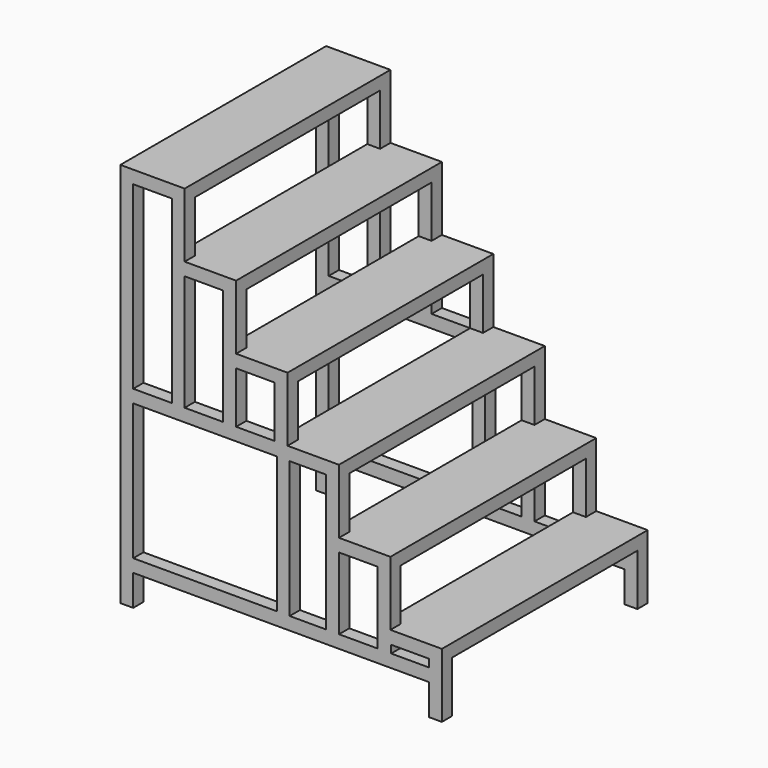
from build123d import *

# Parameters (mm, degrees)
F0_W      = 250
F0_H      = 250
F1_DEPTH  = 1000
F2_T      = -50
F3_W      = 1150
F3_H      = 120
F4_DEPTH  = 1100
F5_W      = 900
F5_H      = 200
F6_DEPTH  = 5000
F7_W      = 900
F7_H      = 200
F8_DEPTH  = 300
F9_W      = 900
F9_H      = 200
F10_DEPTH = 300
F11_W     = 900
F11_H     = 200
F12_DEPTH = 300
F13_W     = 900
F13_H     = 200
F14_DEPTH = 300
F15_W     = 900
F15_H     = 200
F16_DEPTH = 300
F17_W     = 150
F17_H     = 200
F17_W_2   = 558.2895040512
F17_H_2   = 530
F17_W_3   = 147.1817493439
F17_H_3   = 30
F18_DEPTH = 5000


with BuildPart() as f1:
    # F0 (on Front) → F1 (new body)
    with BuildSketch(Plane.XZ):
        Polygon((0, 250), (0, 0), (1250, 0), (1250, 250), (1050, 250), align=None)
        Polygon((0, 500), (0, 250), (1050, 250), (1050, 500), (850, 500), align=None)
        Polygon((0, 750), (0, 500), (850, 500), (850, 750), (650, 750), align=None)
        Polygon((0, 1000), (0, 750), (650, 750), (650, 1000), (450, 1000), align=None)
        Polygon((0, 1250), (0, 1000), (450, 1000), (450, 1250), (250, 1250), align=None)
        with Locations((125, 1375)):
            Rectangle(F0_W, F0_H)
    extrude(amount=F1_DEPTH)

    # F2
    f2_openings = [f1.faces().sort_by_distance(p)[0] for p in [
        (0, -500, 750),
    ]]
    offset(amount=F2_T, openings=f2_openings, kind=Kind.INTERSECTION)

    # F3 (on face) → F4 (cut)
    with BuildSketch(Plane.XZ.offset(1000)):
        with Locations((625, 60)):
            Rectangle(F3_W, F3_H)
    extrude(amount=-F4_DEPTH, mode=Mode.SUBTRACT)

    # F5 (on face) → F6 (cut)
    with BuildSketch(Plane.YZ.offset(1250)):
        with Locations((-500, 100)):
            Rectangle(F5_W, F5_H)
    extrude(amount=-F6_DEPTH, mode=Mode.SUBTRACT)

    # F7 (on face) → F8 (cut)
    with BuildSketch(Plane.YZ.offset(1050)):
        with Locations((-500, 350)):
            Rectangle(F7_W, F7_H)
    extrude(amount=-F8_DEPTH, mode=Mode.SUBTRACT)

    # F9 (on face) → F10 (cut)
    with BuildSketch(Plane.YZ.offset(850)):
        with Locations((-500, 600)):
            Rectangle(F9_W, F9_H)
    extrude(amount=-F10_DEPTH, mode=Mode.SUBTRACT)

    # F11 (on face) → F12 (cut)
    with BuildSketch(Plane.YZ.offset(650)):
        with Locations((-500, 850)):
            Rectangle(F11_W, F11_H)
    extrude(amount=-F12_DEPTH, mode=Mode.SUBTRACT)

    # F13 (on face) → F14 (cut)
    with BuildSketch(Plane.YZ.offset(450)):
        with Locations((-500, 1100)):
            Rectangle(F13_W, F13_H)
    extrude(amount=-F14_DEPTH, mode=Mode.SUBTRACT)

    # F15 (on face) → F16 (cut)
    with BuildSketch(Plane.YZ.offset(250)):
        with Locations((-500, 1350)):
            Rectangle(F15_W, F15_H)
    extrude(amount=-F16_DEPTH, mode=Mode.SUBTRACT)

    # F17 (on face) → F18 (cut)
    with BuildSketch(Plane(origin=(0, 0, 0), x_dir=(-1, 0, 0), z_dir=(0, 1, 0))):
        with Locations((-525, 850)):
            Rectangle(F17_W, F17_H)
        Polygon((-200, 750), (-50, 750), (-50, 1450), (-200, 1450), (-200, 1200), align=None)
        Polygon((-250, 750), (-250, 1200), (-400, 1200), (-400, 950), (-400, 750), align=None)
        with Locations((-329.1447520256, 435)):
            Rectangle(F17_W_2, F17_H_2)
        Polygon((-658.2895040512, 700), (-800, 700), (-800, 450), (-800, 170), (-658.2895040512, 170), align=None)
        Polygon((-850, 170), (-850, 450), (-1000, 450), (-1000, 200), (-1000, 170), align=None)
        with Locations((-1126.4091253281, 185)):
            Rectangle(F17_W_3, F17_H_3)
    extrude(amount=-F18_DEPTH, mode=Mode.SUBTRACT)


solid = f1.part
